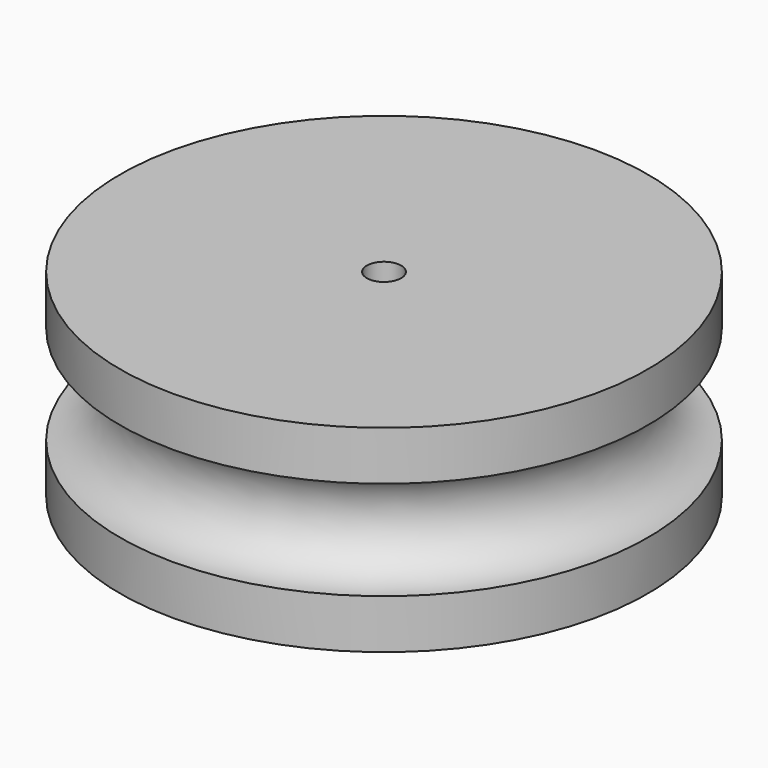
from build123d import *

# Parameters (mm, degrees)
F2_R     = 1.651
F3_DEPTH = 25.4


with BuildPart() as f1:
    # F0 (on Right) → F1 (revolve)
    with BuildSketch(Plane.YZ):
        with BuildLine():
            Line((-11.932227, 19.006881), (-37.332227, 19.006881))
            Line((-37.332227, 19.006881), (-37.332227, 0))
            Line((-37.332227, 0), (-11.932227, 0))
            Line((-11.932227, 0), (-11.932227, 4.74094))
            ThreePointArc((-11.932227, 4.74094), (-16.694727, 9.50344), (-11.932227, 14.26594))
            Line((-11.932227, 14.26594), (-11.932227, 19.006881))
        make_face()
    revolve(axis=Axis((0, -37.332227, 9.50344), (0, 0, -1)))

    # F2 (on face) → F3 (cut)
    with BuildSketch(Plane.XY.offset(19.006881)):
        with Locations((0, -37.332227)):
            Circle(F2_R)
    extrude(amount=-F3_DEPTH, mode=Mode.SUBTRACT)


solid = f1.part
